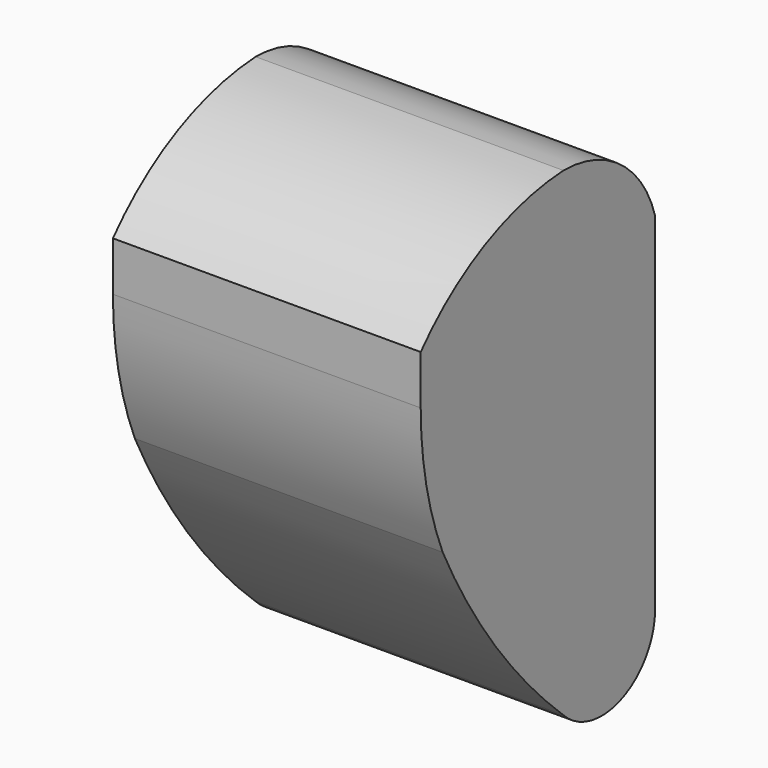
from build123d import *

# Parameters (mm, degrees)
F1_DEPTH = 160


with BuildPart() as f1:
    # F0 (on Right) → F1 (new body)
    with BuildSketch(Plane.YZ):
        with BuildLine():
            Line((59.567854, -63.516632), (59.567854, 116.483368))
            ThreePointArc((59.567854, 116.483368), (37.328795, 148.972055), (0, 161.488108))
            ThreePointArc((0, 161.488108), (-50.976028, 148.217943), (-92.728242, 116.102443))
            Line((-92.728242, 116.102443), (-92.728242, 90.506442))
            ThreePointArc((-92.728242, 90.506442), (-89.128306, 53.895973), (-78.466393, 18.687883))
            ThreePointArc((-78.466393, 18.687883), (-44.220646, -38.215538), (0, -87.766573))
            ThreePointArc((0, -87.766573), (37.939077, -95.674014), (59.567854, -63.516632))
        make_face()
    extrude(amount=F1_DEPTH)


solid = f1.part
